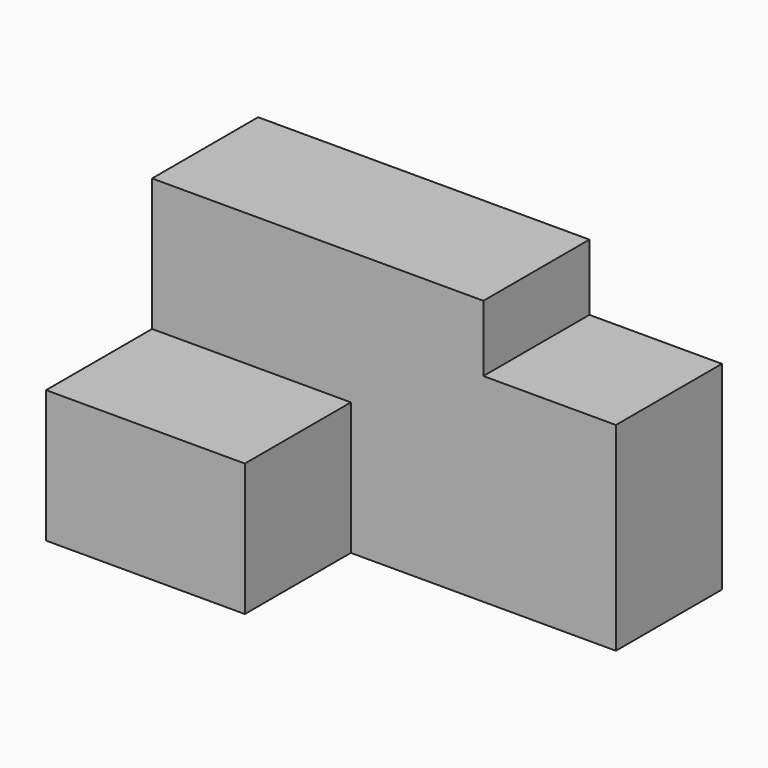
from build123d import *

# Parameters (mm, degrees)
F1_DEPTH = 25.4
F2_W     = 38.1
F2_H     = 25.4
F3_DEPTH = 25.4


with BuildPart() as f1:
    # F0 (on Front) → F1 (new body)
    with BuildSketch(Plane.XZ):
        Polygon((30.991377, 6.175802), (-32.508623, 6.175802), (-32.508623, -44.624198), (56.391377, -44.624198), (56.391377, -6.524198), (30.991377, -6.524198), align=None)
    extrude(amount=-F1_DEPTH)

    # F2 (on face) → F3 (join)
    with BuildSketch(Plane.XZ):
        with Locations((-13.458623, -31.924198)):
            Rectangle(F2_W, F2_H)
    extrude(amount=F3_DEPTH)


solid = f1.part
